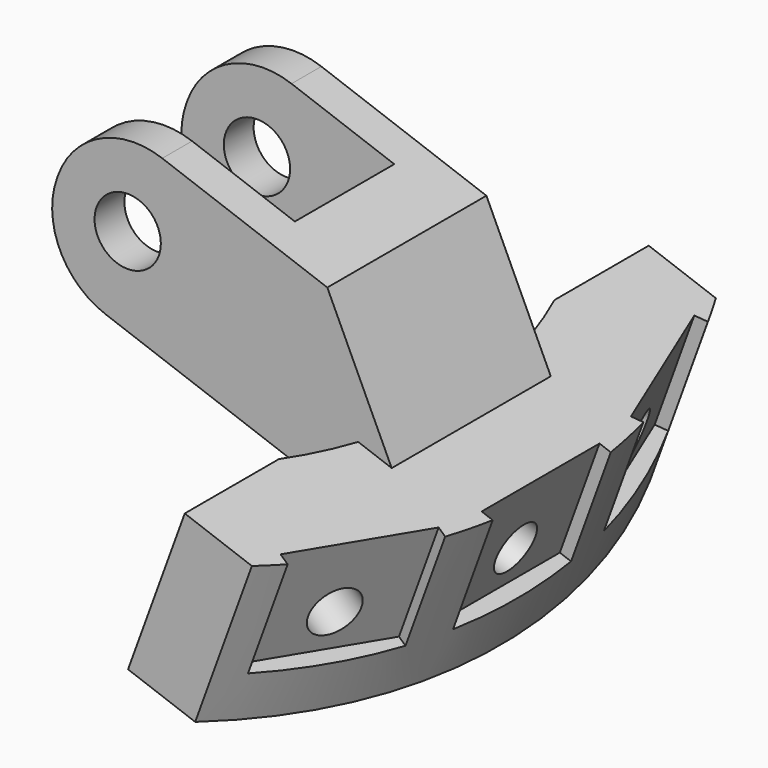
from build123d import *

# Parameters (mm, degrees)
CYLINDER282_R               = 3
CYLINDER282_DEPTH           = 12
BOX184_W                    = 16
BOX184_H                    = 7.5
BOX184_DEPTH                = 12
CYLINDER271_R               = 2
CYLINDER271_DEPTH           = 15
BOX185_W                    = 22
BOX185_H                    = 12
BOX185_DEPTH                = 10
FILLET120_R                 = 4.9
FILLET120_PLACEMENT_ANGLE   = 180
CHAMFER035_SIZE             = 6.5
CYLINDER275_R               = 1.5
CYLINDER275_DEPTH           = 18
BOX194_W                    = 2
BOX194_H                    = 8.89
BOX194_DEPTH                = 21.59
FUSION188_PLACEMENT_ANGLE   = 20
CYLINDER276_R               = 1.5
CYLINDER276_DEPTH           = 18
BOX195_W                    = 2
BOX195_H                    = 8.89
BOX195_DEPTH                = 21.59
FUSION189_PLACEMENT_ANGLE   = 20
CYLINDER272_R               = 1.5
CYLINDER272_DEPTH           = 18
BOX186_W                    = 2
BOX186_H                    = 8.89
BOX186_DEPTH                = 21.59
CYLINDER280_R               = 3
CYLINDER280_DEPTH           = 12
CYLINDER281_R               = 3
CYLINDER281_DEPTH           = 8
CYLINDER281_PITCH_ANGLE     = 90
CYLINDER281_PLACEMENT_ANGLE = 20
CYLINDER279_R               = 3
CYLINDER279_DEPTH           = 8
CYLINDER279_PITCH_ANGLE     = 90
CYLINDER279_PLACEMENT_ANGLE = 20
BOX190_W                    = 10
BOX190_H                    = 10
BOX190_DEPTH                = 12
BOX191_W                    = 10
BOX191_H                    = 10
BOX191_DEPTH                = 12
BOX189_W                    = 62
BOX189_H                    = 73
BOX189_DEPTH                = 12
TUBE_R                      = 35
TUBE_R_2                    = 28
TUBE_DEPTH                  = 10
FUSION196_PLACEMENT_ANGLE   = 20


with BuildPart() as zylinder284:
    # Cylinder282 → Cylinder282 (new body)
    with BuildSketch(Plane(origin=(44, 0, -11.55), x_dir=(0, 0, -1), z_dir=(1, 0, 0))):
        Circle(CYLINDER282_R)
    extrude(amount=CYLINDER282_DEPTH)


with BuildPart() as obj1:
    # Box184 → Box184 (new body)
    with BuildSketch(Plane(origin=(28.5, -3.75, -11.5), x_dir=(1, 0, 0), z_dir=(0, 0, 1))):
        with Locations((8, 3.75)):
            Rectangle(BOX184_W, BOX184_H)
    extrude(amount=BOX184_DEPTH)


with BuildPart() as fusion185:
    # Cylinder271 → Cylinder271 (new body)
    with BuildSketch(Plane(origin=(37.5, 7.5, -5.5), x_dir=(1, 0, 0), z_dir=(0, -1, 0))):
        Circle(CYLINDER271_R)
    extrude(amount=CYLINDER271_DEPTH)

    # Fusion185: union obj1
    add(obj1.part)


with BuildPart() as cut132:
    # Box185 → Box185 (new body)
    with BuildSketch(Plane(origin=(27, -3.5, -10.5), x_dir=(1, 0, 0), z_dir=(0, 0, 1))):
        with Locations((11, 6)):
            Rectangle(BOX185_W, BOX185_H)
    extrude(amount=BOX185_DEPTH)

    # Fillet120
    fillet120_edges = [cut132.edges().sort_by_distance(p)[0] for p in [
        (49, 2.5, -0.5),
        (49, 2.5, -10.5),
    ]]
    fillet(fillet120_edges, radius=FILLET120_R)


with BuildPart() as cut132_1:
    # Fillet120 placement: moved
    add(cut132.part.moved(Location((82, -2.5, -11))).rotate(Axis((82, -2.5, -11), (0, 1, 0)), FILLET120_PLACEMENT_ANGLE))

    # Cut122: cut Fusion185
    add(fusion185.part, mode=Mode.SUBTRACT)

    # Chamfer035
    chamfer035_edges = [cut132_1.edges().sort_by_distance(p)[0] for p in [
        (55, 0, -0.5),
    ]]
    chamfer(chamfer035_edges, length=CHAMFER035_SIZE)

    # Cut132: cut Zylinder284
    add(zylinder284.part, mode=Mode.SUBTRACT)


with BuildPart() as zylinder277:
    # Cylinder275 → Cylinder275 (new body)
    with BuildSketch(Plane(origin=(48, 0, -11.55), x_dir=(0, 0, -1), z_dir=(1, 0, 0))):
        Circle(CYLINDER275_R)
    extrude(amount=CYLINDER275_DEPTH)


with BuildPart() as fusion188:
    # Box194 → Box194 (new body)
    with BuildSketch(Plane(origin=(61.5, -4.5, -14), x_dir=(1, 0, 0), z_dir=(0, 0, 1))):
        with Locations((1, 4.445)):
            Rectangle(BOX194_W, BOX194_H)
    extrude(amount=BOX194_DEPTH)

    # Fusion188: union Zylinder277
    add(zylinder277.part)


with BuildPart() as fusion188_1:
    # Fusion188 placement: moved
    add(fusion188.part.moved(Location((-0.210743, 9.654304, 0))).rotate(Axis((-0.210743, 9.654304, 0), (0, 0, -1)), FUSION188_PLACEMENT_ANGLE))


with BuildPart() as zylinder278:
    # Cylinder276 → Cylinder276 (new body)
    with BuildSketch(Plane(origin=(48, 0, -11.55), x_dir=(0, 0, -1), z_dir=(1, 0, 0))):
        Circle(CYLINDER276_R)
    extrude(amount=CYLINDER276_DEPTH)


with BuildPart() as fusion189:
    # Box195 → Box195 (new body)
    with BuildSketch(Plane(origin=(61.5, -4.5, -14), x_dir=(1, 0, 0), z_dir=(0, 0, 1))):
        with Locations((1, 4.445)):
            Rectangle(BOX195_W, BOX195_H)
    extrude(amount=BOX195_DEPTH)

    # Fusion189: union Zylinder278
    add(zylinder278.part)


with BuildPart() as fusion189_1:
    # Fusion189 placement: moved
    add(fusion189.part.moved(Location((-0.210743, 9.654304, 0))).rotate(Axis((-0.210743, 9.654304, 0), (0, 0, -1)), FUSION189_PLACEMENT_ANGLE))


with BuildPart() as part_mirroring007:
    # Part__Mirroring007: instance of Fusion189
    add(fusion189_1.part.mirror(Plane(origin=(0, 0, 0), x_dir=(1, 0, 0), z_dir=(0, 1, 0))))


with BuildPart() as zylinder274:
    # Cylinder272 → Cylinder272 (new body)
    with BuildSketch(Plane(origin=(48, 0, -11.55), x_dir=(0, 0, -1), z_dir=(1, 0, 0))):
        Circle(CYLINDER272_R)
    extrude(amount=CYLINDER272_DEPTH)


with BuildPart() as fusion193:
    # Box186 → Box186 (new body)
    with BuildSketch(Plane(origin=(61.5, -4.5, -14), x_dir=(1, 0, 0), z_dir=(0, 0, 1))):
        with Locations((1, 4.445)):
            Rectangle(BOX186_W, BOX186_H)
    extrude(amount=BOX186_DEPTH)

    # Fusion187: union Zylinder274
    add(zylinder274.part)


with BuildPart() as fusion193_1:
    # Fusion187 placement: moved
    add(fusion193.part.moved(Location((-2, 0, 0))))

    # Fusion193: union Fusion188, Part__Mirroring007
    add(fusion188_1.part)
    add(part_mirroring007.part)


with BuildPart() as zylinder282:
    # Cylinder280 → Cylinder280 (new body)
    with BuildSketch(Plane(origin=(44, 0, -11.55), x_dir=(0, 0, -1), z_dir=(1, 0, 0))):
        Circle(CYLINDER280_R)
    extrude(amount=CYLINDER280_DEPTH)


with BuildPart() as zylinder283:
    # Cylinder281 → Cylinder281 (new body)
    with BuildSketch(Plane.XY):
        Circle(CYLINDER281_R)
    extrude(amount=CYLINDER281_DEPTH)


with BuildPart() as zylinder283_1:
    # Cylinder281 pitch: moved
    add(zylinder283.part.rotate(Axis((0, 0, 0), (0, 1, 0)), CYLINDER281_PITCH_ANGLE))


with BuildPart() as zylinder283_2:
    # Cylinder281 placement: moved
    add(zylinder283_1.part.moved(Location((46.763839, 7.517541, -11.55))).rotate(Axis((46.763839, 7.517541, -11.55), (0, 0, 1)), CYLINDER281_PLACEMENT_ANGLE))


with BuildPart() as zylinder281:
    # Cylinder279 → Cylinder279 (new body)
    with BuildSketch(Plane.XY):
        Circle(CYLINDER279_R)
    extrude(amount=CYLINDER279_DEPTH)


with BuildPart() as zylinder281_1:
    # Cylinder279 pitch: moved
    add(zylinder281.part.rotate(Axis((0, 0, 0), (0, 1, 0)), CYLINDER279_PITCH_ANGLE))


with BuildPart() as zylinder281_2:
    # Cylinder279 placement: moved
    add(zylinder281_1.part.moved(Location((46.763839, 7.517541, -11.55))).rotate(Axis((46.763839, 7.517541, -11.55), (0, 0, 1)), CYLINDER279_PLACEMENT_ANGLE))


with BuildPart() as fusion195:
    # Part__Mirroring009: instance of Zylinder281
    add(zylinder281_2.part.mirror(Plane(origin=(0, 0, 0), x_dir=(1, 0, 0), z_dir=(0, 1, 0))))

    # Fusion195: union Zylinder282, Zylinder283
    add(zylinder282.part)
    add(zylinder283_2.part)


with BuildPart() as obj2:
    # Box190 → Box190 (new body)
    with BuildSketch(Plane(origin=(47.5, -27.5, -18), x_dir=(1, 0, 0), z_dir=(0, 0, 1))):
        with Locations((5, 5)):
            Rectangle(BOX190_W, BOX190_H)
    extrude(amount=BOX190_DEPTH)


with BuildPart() as obj3:
    # Box191 → Box191 (new body)
    with BuildSketch(Plane(origin=(47.5, 17.5, -18), x_dir=(1, 0, 0), z_dir=(0, 0, 1))):
        with Locations((5, 5)):
            Rectangle(BOX191_W, BOX191_H)
    extrude(amount=BOX191_DEPTH)


with BuildPart() as fusion186:
    # Box189 → Box189 (new body)
    with BuildSketch(Plane(origin=(-10.5, -37, -18), x_dir=(1, 0, 0), z_dir=(0, 0, 1))):
        with Locations((31, 36.5)):
            Rectangle(BOX189_W, BOX189_H)
    extrude(amount=BOX189_DEPTH)

    # Fusion186: union obj2, obj3
    add(obj2.part)
    add(obj3.part)


with BuildPart() as obj4:
    # Tube → Tube (new body)
    with BuildSketch(Plane(origin=(25.5, 0, -17), x_dir=(1, 0, 0), z_dir=(0, 0, 1))):
        Circle(TUBE_R)
        Circle(TUBE_R_2, mode=Mode.SUBTRACT)
    extrude(amount=TUBE_DEPTH)

    # Cut126: cut Fusion186
    add(fusion186.part, mode=Mode.SUBTRACT)

    # Cut130: cut Fusion195
    add(fusion195.part, mode=Mode.SUBTRACT)

    # Cut131: cut Fusion193
    add(fusion193_1.part, mode=Mode.SUBTRACT)

    # Fusion196: union Cut132
    add(cut132_1.part)


with BuildPart() as obj4_1:
    # Fusion196 placement: moved
    add(obj4.part.moved(Location((4.168672, 0, 12.476665))).rotate(Axis((4.168672, 0, 12.476665), (0, 1, 0)), FUSION196_PLACEMENT_ANGLE))


solid = obj4_1.part
